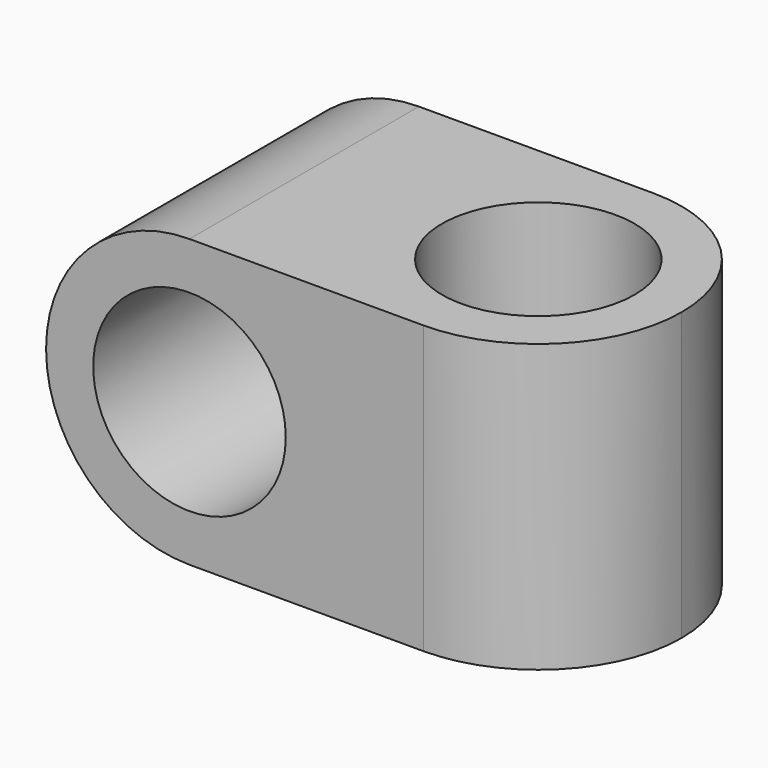
from build123d import *

# Parameters (mm, degrees)
F0_W     = 19.07
F0_H     = 10.5
F1_DEPTH = 10.5
F2_R     = 3.525
F3_DEPTH = 10.5
F4_R     = 3.525
F5_DEPTH = 9
F7_DEPTH = 10.501


with BuildPart() as f1:
    # F0 (on Front) → F1 (new body)
    with BuildSketch(Plane.XZ):
        Rectangle(F0_W, F0_H)
    extrude(amount=-F1_DEPTH)

    # F2 (on face) → F3 (cut, through all)
    with BuildSketch(Plane.XZ):
        with BuildLine():
            ThreePointArc((-4.285, -5.25), (-7.997311, -3.712311), (-9.535, 0))
            Line((-9.535, 0), (-9.535, -5.25))
            Line((-9.535, -5.25), (-4.285, -5.25))
        make_face()
        with BuildLine():
            ThreePointArc((-9.535, 0), (-7.997311, 3.712311), (-4.285, 5.25))
            Line((-4.285, 5.25), (-9.535, 5.25))
            Line((-9.535, 5.25), (-9.535, 0))
        make_face()
        with Locations((-4.285, 0)):
            Circle(F2_R)
    extrude(amount=-F3_DEPTH, mode=Mode.SUBTRACT)

    # F4 (on face) → F5 (cut)
    with BuildSketch(Plane.XY.offset(5.25)):
        with Locations((4.285, 5.25)):
            Circle(F4_R)
    extrude(amount=-F5_DEPTH, mode=Mode.SUBTRACT)

    # F6 (on face) → F7 (cut, through all)
    with BuildSketch(Plane.XY.offset(5.25)):
        with BuildLine():
            ThreePointArc((4.285, 10.5), (7.997311, 8.962311), (9.535, 5.25))
            Line((9.535, 5.25), (9.535, 10.5))
            Line((9.535, 10.5), (4.285, 10.5))
        make_face()
        with BuildLine():
            ThreePointArc((9.535, 5.25), (7.997311, 1.537689), (4.285, 0))
            Line((4.285, 0), (9.535, 0))
            Line((9.535, 0), (9.535, 5.25))
        make_face()
    extrude(amount=-F7_DEPTH, mode=Mode.SUBTRACT)


solid = f1.part
